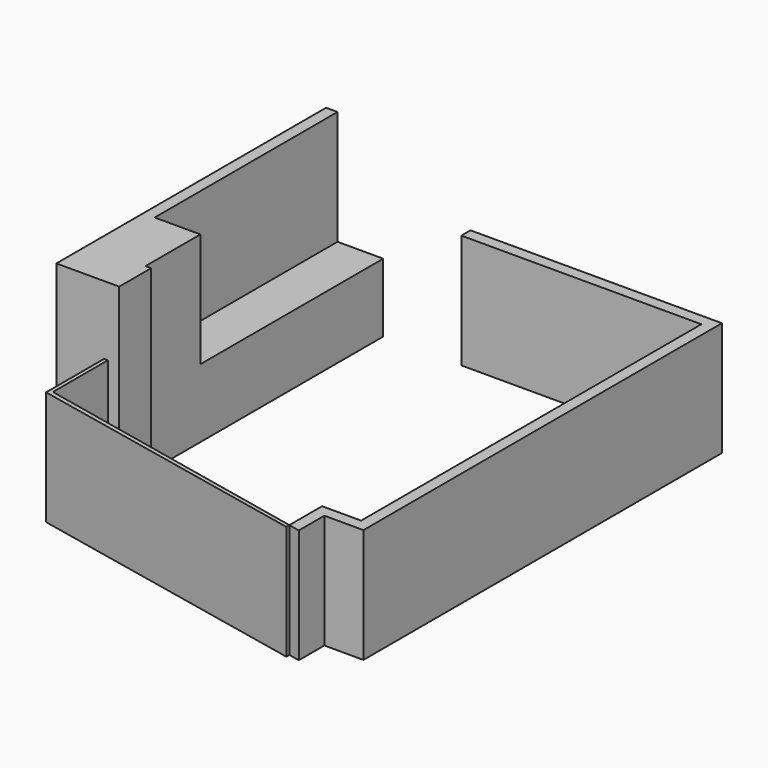
from build123d import *

# Parameters (mm, degrees)
F1_DEPTH = 2438.4
F2_DEPTH = 1524
F0_W     = 609.6
F0_H     = 3048
F3_DEPTH = 914.4
F4_DEPTH = 1524


with BuildPart() as f1:
    # F0 (on Top) → F1 (new body)
    with BuildSketch(Plane.XY):
        Polygon((0, -3962.4), (0, -3048), (-609.6, -3048), (-609.6, 0), (-762, 0), (-762, -4495.8), (-127, -4495.8), (-76.2, -4495.8), (76.2, -4495.8), (76.2, -3962.4), align=None)
    extrude(amount=F1_DEPTH)

    # F0 (on Top) → F3 (join)
    with BuildSketch(Plane.XY):
        with Locations((-304.8, -1524)):
            Rectangle(F0_W, F0_H)
    extrude(amount=F3_DEPTH)


with BuildPart() as f2:
    # F0 (on Top) → F2 (new body)
    with BuildSketch(Plane.XY):
        Polygon((-76.2, -4495.8), (-127, -4495.8), (-127, -5461), (3721.1, -6267.45), (3721.1, -6216.65), (-76.2, -5410.2), align=None)
    extrude(amount=F2_DEPTH)


with BuildPart() as f4:
    # F0 (on Top) → F4 (new body)
    with BuildSketch(Plane.XY):
        Polygon((3721.1, -5670.55), (3721.1, -6216.65), (3873.5, -6249.015886), (3873.5, -5822.95), (4394.2, -5822.95), (4394.2, 152.4), (1041.4, 152.4), (1041.4, 0), (4241.8, 0), (4241.8, -5670.55), align=None)
    extrude(amount=F4_DEPTH)


solid = Compound([f1.part, f2.part, f4.part])
